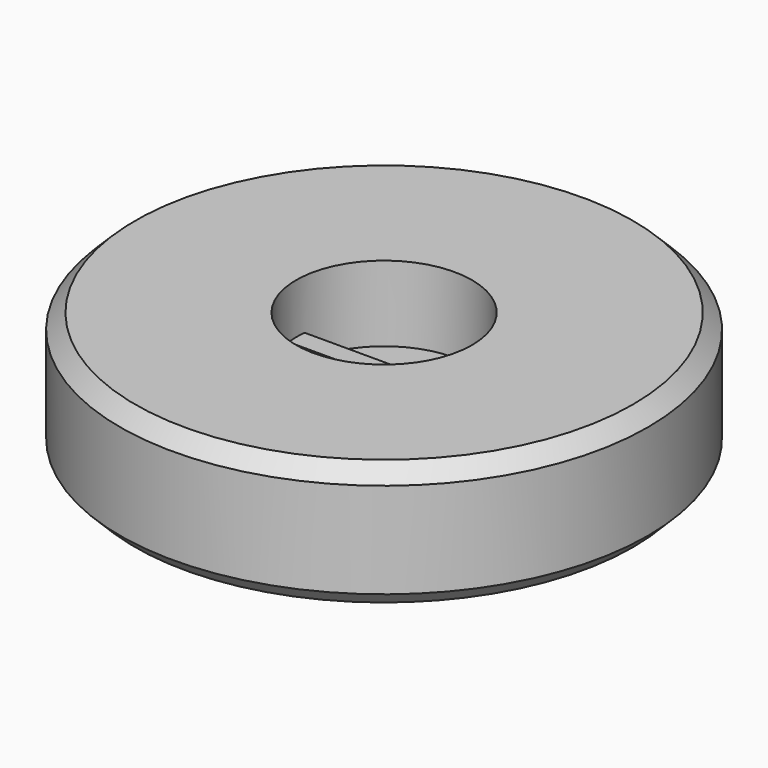
from build123d import *

# Parameters (mm, degrees)
F0_R     = 10.5
F1_DEPTH = 5
F2_R     = 3.5
F3_DEPTH = 3
F4_W     = 8
F4_H     = 0.8
F5_DEPTH = 1
F6_SIZE  = 0.6


with BuildPart() as f1:
    # F0 (on Top) → F1 (new body)
    with BuildSketch(Plane.XY):
        Circle(F0_R)
    extrude(amount=F1_DEPTH)

    # F2 (on face) → F3 (cut)
    with BuildSketch(Plane.XY.offset(5)):
        Circle(F2_R)
    extrude(amount=-F3_DEPTH, mode=Mode.SUBTRACT)

    # F4 (on face) → F5 (join)
    with BuildSketch(Plane.XY.offset(2)):
        Rectangle(F4_W, F4_H)
    extrude(amount=F5_DEPTH)

    # F6
    f6_edges = [f1.edges().sort_by_distance(p)[0] for p in [
        (-10.5, 0, 5),
        (-10.5, 0, 0),
    ]]
    chamfer(f6_edges, length=F6_SIZE)


solid = f1.part
